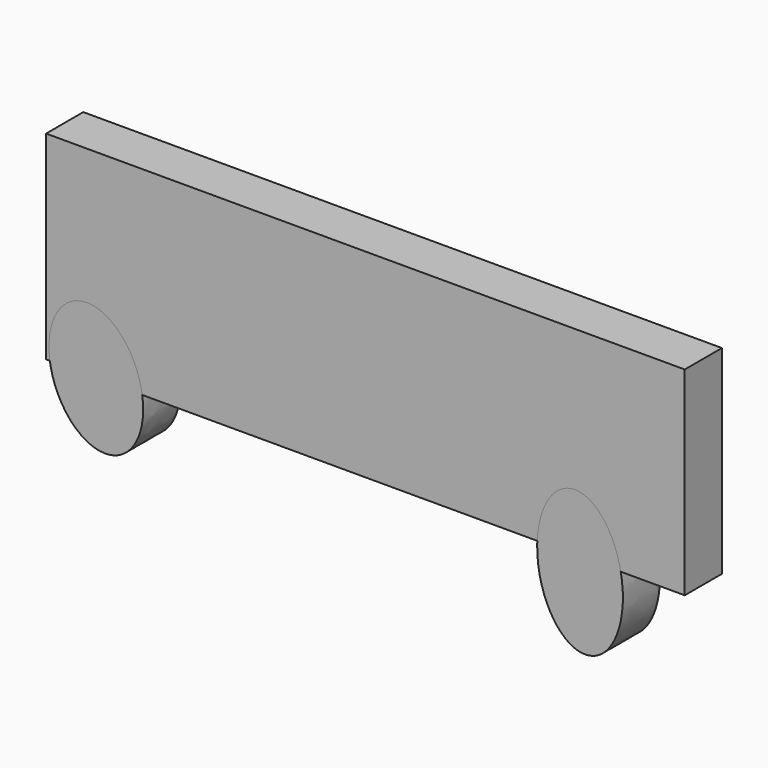
from build123d import *

# Parameters (mm, degrees)
F0_W     = 349.1063117981
F0_H     = 108.6854711175
F2_DEPTH = 25.4


with BuildPart() as f2:
    # F0 (on Front) → F2 (new body)
    with BuildSketch(Plane.XZ):
        Rectangle(F0_W, F0_H)
    extrude(amount=F2_DEPTH)


with BuildPart() as f2b:
    # F1 (on Front) → F2, piece 2 (new body)
    with BuildSketch(Plane.XZ):
        with BuildLine():
            add(Edge.make_bspline(
                [(112.971663475, -23.1147967279), (73.0984838268, -27.5892411071), (99.5401681195, -83.3209595034), (125.9818524122, -139.0526778996), (139.4133477677, -78.8465151241), (152.8448431232, -18.6403523487), (112.971663475, -23.1147967279)],
                knots=[0, 0, 0, 2.0943951024, 2.0943951024, 4.1887902048, 4.1887902048, 6.2831853072, 6.2831853072, 6.2831853072], degree=2, weights=[1, 0.5, 1, 0.5, 1, 0.5, 1]))
        make_face()
    extrude(amount=F2_DEPTH)


with BuildPart() as f2c:
    # F1 (on Front) → F2, piece 3 (new body)
    with BuildSketch(Plane.XZ):
        with BuildLine():
            add(Edge.make_bspline(
                [(-137.257322669, -88.4109213948), (-96.1590567124, -76.3479501494), (-131.6698868519, -31.4052772019), (-167.1807169914, 13.5373957455), (-172.7681528085, -43.4682484474), (-178.3555886256, -100.4738926403), (-137.257322669, -88.4109213948)],
                knots=[0, 0, 0, 2.0943951024, 2.0943951024, 4.1887902048, 4.1887902048, 6.2831853072, 6.2831853072, 6.2831853072], degree=2, weights=[1, 0.5, 1, 0.5, 1, 0.5, 1]))
        make_face()
    extrude(amount=F2_DEPTH)


solid = Compound([f2.part, f2b.part, f2c.part])
